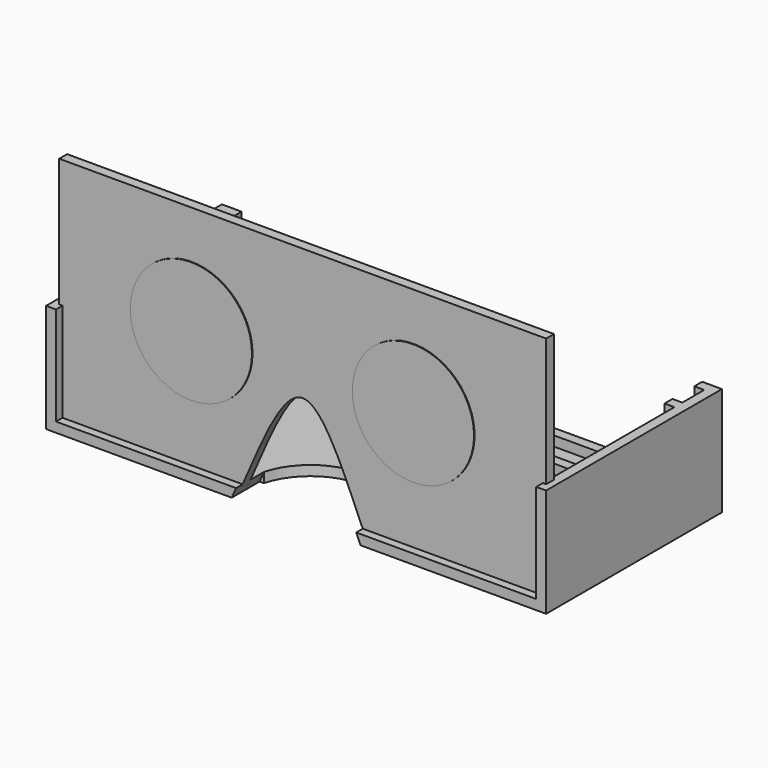
from build123d import *

# Parameters (mm, degrees)
F0_R           = 18.5
F1_DEPTH       = 3.2
F5_DEPTH       = 55.5
F5_DEPTH_BACK  = 11.3
F6_R           = 18.5
F7_DEPTH       = 3
F8_DEPTH       = 3
F10_DEPTH      = 26.3
F10_DEPTH_BACK = 5.1
F12_DEPTH      = 63.1
F14_DEPTH      = 3
F17_DEPTH      = 3


with BuildPart() as f1:
    # F0 (on Front) → F1 (new body)
    with BuildSketch(Plane.XZ):
        with BuildLine():
            ThreePointArc((52.25, 0), (33.75, 18.5), (15.25, 0))
            ThreePointArc((15.25, 0), (33.75, -18.5), (52.25, 0))
        make_face()
        with Locations((-33.75, 0)):
            Circle(F0_R)
    extrude(amount=F1_DEPTH)


with BuildPart() as f5:
    # F4 (on offset) → F5 (new body, two sides)
    with BuildSketch(Plane.XZ.offset(-50)) as f5_sk:
        Polygon((-73, -36), (-73, -6), (-76, -6), (-76, -39), (76, -39), (76, -6), (73, -6), (73, -36), (0, -36), align=None)
    extrude(amount=F5_DEPTH)
    extrude(f5_sk.sketch, amount=-F5_DEPTH_BACK)

    # F6 (on Front) → F7 (cut)
    with BuildSketch(Plane.XZ):
        Polygon((74, 33), (0, 33), (-74, 33), (-74, -37), (74, -37), align=None)
        with Locations((-33.75, 0)):
            Circle(F6_R, mode=Mode.SUBTRACT)
        with BuildLine():
            ThreePointArc((52.25, 0), (33.75, -18.5), (15.25, 0))
            ThreePointArc((15.25, 0), (33.75, 18.5), (52.25, 0))
        make_face(mode=Mode.SUBTRACT)
        Polygon((-74, 33), (0, 33), (74, 33), (74, 43), (-74, 43), align=None)
    extrude(amount=F7_DEPTH, mode=Mode.SUBTRACT)


with BuildPart() as f8:
    # F6 (on Front) → F8 (new body)
    with BuildSketch(Plane.XZ):
        Polygon((74, 33), (0, 33), (-74, 33), (-74, -37), (74, -37), align=None)
        with Locations((-33.75, 0)):
            Circle(F6_R, mode=Mode.SUBTRACT)
        with BuildLine():
            ThreePointArc((52.25, 0), (33.75, -18.5), (15.25, 0))
            ThreePointArc((15.25, 0), (33.75, 18.5), (52.25, 0))
        make_face(mode=Mode.SUBTRACT)
    extrude(amount=F8_DEPTH)


with BuildPart() as f10_tool:
    # F9 (on Front) → F10 (new body, two sides)
    with BuildSketch(Plane.XZ) as f10_sk:
        with BuildLine():
            Line((-12.99393, -24.008975), (-20, -40))
            Line((-20, -40), (0, -40))
            Line((0, -40), (0, -7))
            add(Edge.make_bspline(
                [(-12.99393, -24.008975), (-8.565404, -14.390823), (-4.282702, -7), (0, -7)],
                knots=[13.15122, 13.15122, 13.15122, 13.15122, 38.587563, 38.587563, 38.587563, 38.587563], degree=3))
        make_face()
        with BuildLine():
            add(Edge.make_bspline(
                [(-20, -40), (-17.612226, -34.550019), (-15.283588, -28.981798), (-12.99393, -24.008975)],
                knots=[0, 0, 0, 0, 13.15122, 13.15122, 13.15122, 13.15122], degree=3))
            Line((-20, -40), (-12.99393, -24.008975))
        make_face()
        with BuildLine():
            Line((0, -7), (0, -40))
            Line((0, -40), (20, -40))
            Line((20, -40), (12.99393, -24.008975))
            add(Edge.make_bspline(
                [(0, -7), (4.282702, -7), (8.565404, -14.390823), (12.99393, -24.008975)],
                knots=[38.587563, 38.587563, 38.587563, 38.587563, 64.023906, 64.023906, 64.023906, 64.023906], degree=3))
        make_face()
        with BuildLine():
            Line((12.99393, -24.008975), (20, -40))
            add(Edge.make_bspline(
                [(12.99393, -24.008975), (15.283588, -28.981798), (17.612226, -34.550019), (20, -40)],
                knots=[64.023906, 64.023906, 64.023906, 64.023906, 77.175126, 77.175126, 77.175126, 77.175126], degree=3))
        make_face()
    extrude(amount=F10_DEPTH)
    extrude(f10_sk.sketch, amount=-F10_DEPTH_BACK)


with BuildPart() as f5_1:
    add(f5.part)

    # F10: cut by f10_tool
    add(f10_tool.part, mode=Mode.SUBTRACT)

    # F11 (on Top) → F12 (cut)
    with BuildSketch(Plane.XY):
        with BuildLine():
            Line((-18.330303, 5), (18.330303, 5))
            ThreePointArc((18.330303, 5), (0, 19), (-18.330303, 5))
        make_face()
    extrude(amount=-F12_DEPTH, mode=Mode.SUBTRACT)

    # F13 (on offset) → F14 (join)
    with BuildSketch(Plane.XZ.offset(-50)):
        Polygon((73, -36), (73, -6), (70, -6), (70, -33), (-70, -33), (-70, -6), (-73, -6), (-73, -36), align=None)
    extrude(amount=F14_DEPTH)

    # F16 (on offset) → F17 (join)
    with BuildSketch(Plane.XZ.offset(-58.3)):
        Polygon((73, -36), (73, -6), (70, -6), (70, -33), (-70, -33), (-70, -6), (-73, -6), (-73, -36), align=None)
    extrude(amount=-F17_DEPTH)


with BuildPart() as f8_1:
    add(f8.part)

    # F10: cut by f10_tool
    add(f10_tool.part, mode=Mode.SUBTRACT)


solid = Compound([f1.part, f5_1.part, f8_1.part])
